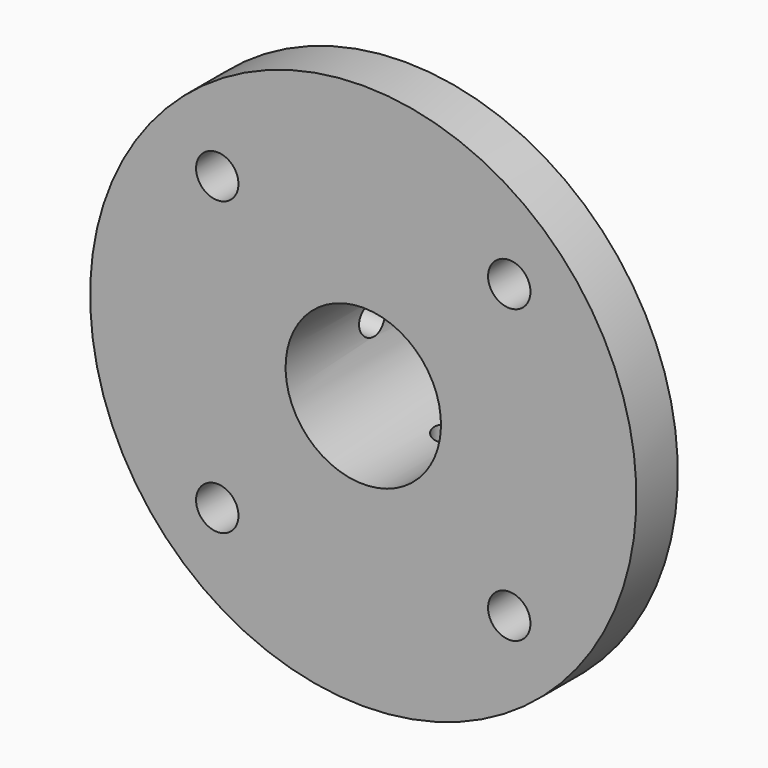
from build123d import *

# Parameters (mm, degrees)
F2_R          = 0.25
F3_R          = 2.25
F4_DEPTH      = 25
F5_R          = 1.65
F6_DEPTH      = 25
F6_DEPTH_BACK = 25
F7_R          = 1.75
F8_DEPTH      = 25
F8_DEPTH_BACK = 25


with BuildPart() as f1:
    # F0 (on Right) → F1 (revolve)
    with BuildSketch(Plane.YZ):
        Polygon((0, 29), (0, 8.25), (17.5, 8.25), (17.5, 13.25), (5.5, 13.25), (5.5, 29), align=None)
    revolve(axis=Axis((0, 5.341735, 0), (0, 1, 0)))

    # F2
    f2_edges = [f1.edges().sort_by_distance(p)[0] for p in [
        (0, 5.5, -13.25),
    ]]
    fillet(f2_edges, radius=F2_R)

    # F3 (on face) → F4 (cut)
    with BuildSketch(Plane(origin=(0, 5.5, 0), x_dir=(-1, 0, 0), z_dir=(0, 1, 0))):
        with Locations((-15.5, 15.5)):
            Circle(F3_R)
        with Locations((15.5, 15.5)):
            Circle(F3_R)
        with Locations((-15.5, -15.5)):
            Circle(F3_R)
        with Locations((15.5, -15.5)):
            Circle(F3_R)
    extrude(amount=-F4_DEPTH, mode=Mode.SUBTRACT)

    # F5 (on Top) → F6 (cut, two sides)
    with BuildSketch(Plane.XY) as f6_sk:
        with Locations((0, 11.5)):
            Circle(F5_R)
    extrude(amount=F6_DEPTH, mode=Mode.SUBTRACT)
    extrude(f6_sk.sketch, amount=-F6_DEPTH_BACK, mode=Mode.SUBTRACT)

    # F7 (on Right) → F8 (cut, two sides)
    with BuildSketch(Plane.YZ) as f8_sk:
        with Locations((11.5, 0)):
            Circle(F7_R)
    extrude(amount=F8_DEPTH, mode=Mode.SUBTRACT)
    extrude(f8_sk.sketch, amount=-F8_DEPTH_BACK, mode=Mode.SUBTRACT)


solid = f1.part
